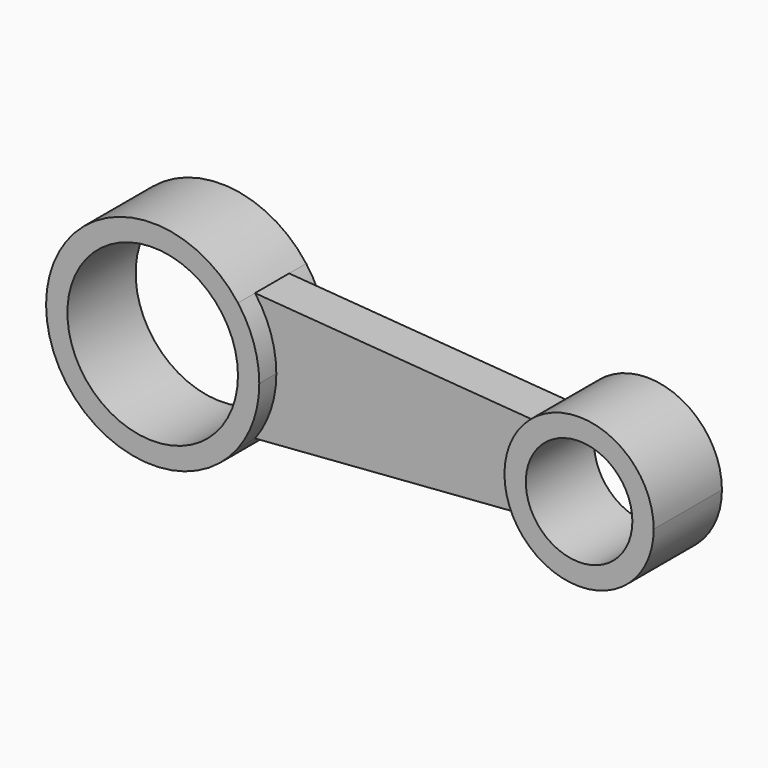
from build123d import *

# Parameters (mm, degrees)
F0_R     = 20
F0_R_2   = 12.5
F1_DEPTH = 10
F2_DEPTH = 5


with BuildPart() as f1:
    # F0 (on Front) → F1 (new body, symmetric)
    with BuildSketch(Plane.XZ):
        with BuildLine():
            ThreePointArc((20, -15), (23.717082, -7.905694), (25, 0))
            ThreePointArc((25, 0), (23.717082, 7.905694), (20, 15))
            ThreePointArc((20, 15), (-25, 0), (20, -15))
        make_face()
        Circle(F0_R, mode=Mode.SUBTRACT)
        with BuildLine():
            ThreePointArc((117.5, 0), (105.240486, 16.696925), (85.638593, 10))
            ThreePointArc((85.638593, 10), (82.5, 0), (85.638593, -10))
            ThreePointArc((85.638593, -10), (105.240486, -16.696925), (117.5, 0))
        make_face()
        with Locations((100, 0)):
            Circle(F0_R_2, mode=Mode.SUBTRACT)
    extrude(amount=F1_DEPTH, both=True)


with BuildPart() as f2:
    # F0 (on Front) → F2 (new body, symmetric)
    with BuildSketch(Plane.XZ):
        with BuildLine():
            ThreePointArc((20, 15), (23.717082, 7.905694), (25, 0))
            ThreePointArc((25, 0), (23.717082, -7.905694), (20, -15))
            Line((20, -15), (85.638593, -10))
            ThreePointArc((85.638593, -10), (82.5, 0), (85.638593, 10))
            Line((85.638593, 10), (20, 15))
        make_face()
    extrude(amount=F2_DEPTH, both=True)


solid = Compound([f1.part, f2.part])
